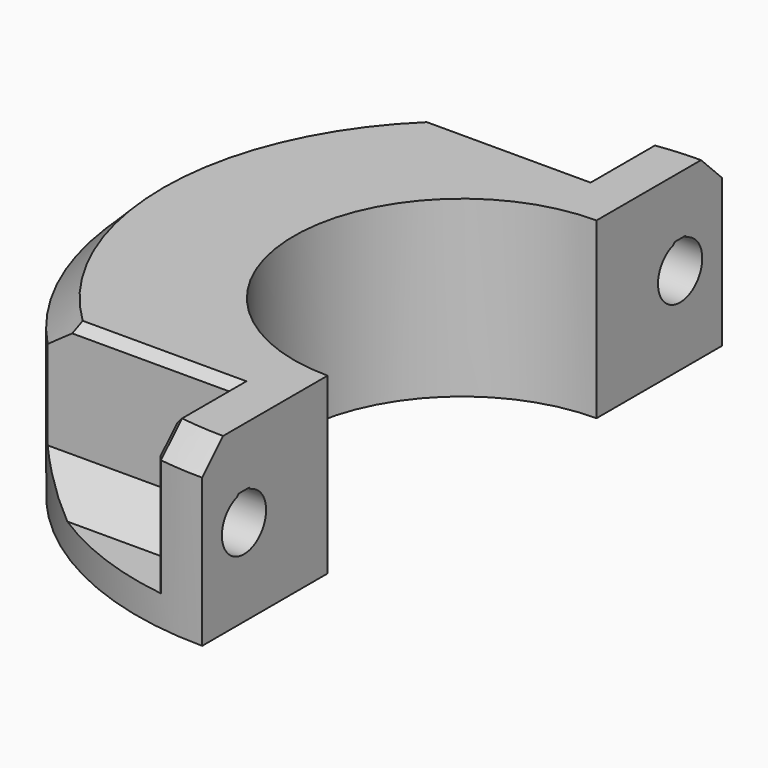
from build123d import *

# Parameters (mm, degrees)
PAD007_DEPTH    = 10
SKETCH023_R     = 3.175
POCKET013_DEPTH = 208.8404998244
POCKET014_DEPTH = 208.8405005395
POCKET015_DEPTH = 32
CHAMFER005_SIZE = 3
SKETCH026_W     = 11.6
SKETCH026_H     = 13.2331615075
POCKET016_DEPTH = 32
SKETCH027_W     = 6
SKETCH027_H     = 3.1836615393
POCKET017_DEPTH = 32
CHAMFER006_SIZE = 1


with BuildPart() as part:
    # Sketch022 → Pad007 (new body, symmetric)
    with BuildSketch(Plane.XY):
        with BuildLine():
            ThreePointArc((0, 19.3), (-19.3, 0), (0, -19.3))
            Line((0, -19.3), (0, -37.3))
            ThreePointArc((0, 37.3), (-37.3, 0), (0, -37.3))
            Line((0, 37.3), (0, 19.3))
        make_face()
    extrude(amount=PAD007_DEPTH, both=True)

    # Sketch023 (on Face3 of Pad007) → Pocket013 (cut, through all)
    with BuildSketch(Plane.YZ):
        with Locations((-31.3, 0)):
            Circle(SKETCH023_R)
    pocket013 = extrude(amount=-POCKET013_DEPTH, mode=Mode.SUBTRACT)

    # Mirrored013: Pocket013 across Sketch023 V_Axis
    add(pocket013.mirror(Plane(origin=(0, 0, 0), x_dir=(1, 0, 0), z_dir=(0, 1, 0))), mode=Mode.SUBTRACT)

    # Sketch024 (on Face7 of Mirrored013) → Pocket014 (cut, through all)
    with BuildSketch(Plane.YZ):
        Polygon((-32.3, 3.0134075396), (-30.3, 3.0134075396), (-30.55, 3.2634075396), (-32.05, 3.2634075396), align=None)
    pocket014 = extrude(amount=-POCKET014_DEPTH, mode=Mode.SUBTRACT)

    # Mirrored014: Pocket014 across Sketch024 V_Axis
    add(pocket014.mirror(Plane(origin=(0, 0, 0), x_dir=(1, 0, 0), z_dir=(0, 1, 0))), mode=Mode.SUBTRACT)

    # Sketch025 (on DatumPlane) → Pocket015 (cut)
    with BuildSketch(Plane(origin=(-38, 0, 0), x_dir=(0, -1, 0), z_dir=(-1, 0, 0))):
        Polygon((31.3, 6.4663230149), (25.7, 3.2331615075), (25.7, -3.2331615075), (31.3, -6.4663230149), (36.9, -3.2331615075), (36.9, 3.2331615075), align=None)
    pocket015 = extrude(amount=-POCKET015_DEPTH, mode=Mode.SUBTRACT)

    # Mirrored015: Pocket015 across Sketch025 V_Axis
    add(pocket015.mirror(Plane(origin=(-38, 0, 0), x_dir=(-1, 0, 0), z_dir=(0, -1, 0))), mode=Mode.SUBTRACT)

    # Chamfer005
    chamfer005_edges = [part.edges().sort_by_distance(p)[0] for p in [
        (-37.3, 0, 10),
    ]]
    chamfer(chamfer005_edges, length=CHAMFER005_SIZE)

    # Sketch026 (on DatumPlane) → Pocket016 (cut)
    with BuildSketch(Plane(origin=(-38, 0, 0), x_dir=(0, -1, 0), z_dir=(-1, 0, 0))):
        with Locations((31.5, 3.3834192463)):
            Rectangle(SKETCH026_W, SKETCH026_H)
    pocket016 = extrude(amount=-POCKET016_DEPTH, mode=Mode.SUBTRACT)

    # Mirrored016: Pocket016 across Sketch026 V_Axis
    add(pocket016.mirror(Plane(origin=(-38, 0, 0), x_dir=(-1, 0, 0), z_dir=(0, -1, 0))), mode=Mode.SUBTRACT)

    # Sketch027 (on DatumPlane) → Pocket017 (cut)
    with BuildSketch(Plane(origin=(-38, 0, 0), x_dir=(0, -1, 0), z_dir=(-1, 0, 0))):
        with Locations((34.3, -4.8744922453)):
            Rectangle(SKETCH027_W, SKETCH027_H)
    pocket017 = extrude(amount=-POCKET017_DEPTH, mode=Mode.SUBTRACT)

    # Mirrored017: Pocket017 across Sketch027 V_Axis
    add(pocket017.mirror(Plane(origin=(-38, 0, 0), x_dir=(-1, 0, 0), z_dir=(0, -1, 0))), mode=Mode.SUBTRACT)

    # Chamfer006
    chamfer006_edges = [part.edges().sort_by_distance(p)[0] for p in [
        (-14.357817, -25.7, 10),
        (-6, -29.735571, 10),
        (-6, -35.293157, 8.500461),
        (-6, -36.814264, 0.266838),
        (-27.033313, 25.7, 1.883419),
        (-24.890244, 25.7, 8.522713),
        (-14.357817, 25.7, 10),
        (-6, 29.735571, 10),
        (-6, 35.293157, 8.500461),
        (-6, 36.814264, 0.266838),
    ]]
    chamfer(chamfer006_edges, length=CHAMFER006_SIZE)


solid = part.part
